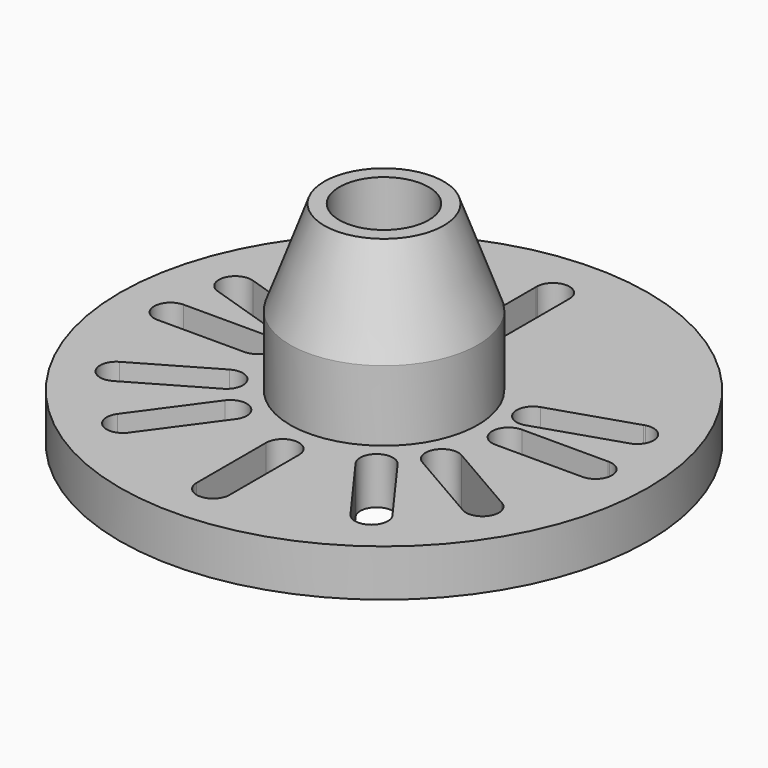
from build123d import *

# Parameters (mm, degrees)
F0_R     = 112.5
F1_DEPTH = 20
F4_R     = 19.05
F5_DEPTH = 90
F6_R     = 42.55
F7_DEPTH = 10


with BuildPart() as f1:
    # F0 (on Top) → F1 (new body)
    with BuildSketch(Plane.XY):
        Circle(F0_R)
        with BuildLine():
            ThreePointArc((-47.443954, -77.196073), (-57.151446, -78.373088), (-58.563792, -68.697033))
            Line((-58.563792, -68.697033), (-36.815737, -38.763404))
            ThreePointArc((-36.815737, -38.763404), (-27.037496, -37.215236), (-25.490409, -46.993649))
            Line((-25.490409, -46.993649), (-47.046201, -76.648867))
            ThreePointArc((-47.046201, -76.648867), (-47.238463, -76.927278), (-47.443954, -77.196073))
        make_face(mode=Mode.SUBTRACT)
        with BuildLine():
            ThreePointArc((-74.74068, -51.224927), (-84.08765, -48.351791), (-81.442286, -38.937822))
            Line((-81.442286, -38.937822), (-49.399346, -20.437822))
            ThreePointArc((-49.399346, -20.437822), (-39.836782, -23.00067), (-42.400686, -32.562951))
            Line((-42.400686, -32.562951), (-74.154746, -50.886811))
            ThreePointArc((-74.154746, -50.886811), (-74.443626, -51.062951), (-74.74068, -51.224927))
        make_face(mode=Mode.SUBTRACT)
        with BuildLine():
            ThreePointArc((-90.839791, -7.491748), (-97.497937, -0.330054), (-90.5, 6.5))
            Line((-90.5, 6.5), (-53.5, 6.5))
            ThreePointArc((-53.5, 6.5), (-46.5, -0.500773), (-53.501547, -7.5))
            Line((-53.501547, -7.5), (-90.163299, -7.491898))
            ThreePointArc((-90.163299, -7.491898), (-90.501547, -7.5), (-90.839791, -7.491748))
        make_face(mode=Mode.SUBTRACT)
        with BuildLine():
            ThreePointArc((6.991748, -91.339791), (-0.169946, -97.997937), (-7, -91))
            Line((-7, -91), (-7, -54))
            ThreePointArc((-7, -54), (0.000773, -47), (7, -54.001547))
            Line((7, -54.001547), (6.991898, -90.663299))
            ThreePointArc((6.991898, -90.663299), (7, -91.001547), (6.991748, -91.339791))
        make_face(mode=Mode.SUBTRACT)
        with BuildLine():
            ThreePointArc((58.75684, -68.97678), (56.876468, -78.572871), (47.237554, -76.926026))
            Line((47.237554, -76.926026), (25.489499, -46.992397))
            ThreePointArc((25.489499, -46.992397), (27.038747, -37.214327), (36.816646, -38.764656))
            Line((36.816646, -38.764656), (58.359329, -68.429399))
            ThreePointArc((58.359329, -68.429399), (58.564701, -68.698284), (58.75684, -68.97678))
        make_face(mode=Mode.SUBTRACT)
        with BuildLine():
            ThreePointArc((81.732428, -39.114864), (83.917705, -48.646146), (74.442286, -51.062178))
            Line((74.442286, -51.062178), (42.399346, -32.562178))
            ThreePointArc((42.399346, -32.562178), (39.837555, -22.99933), (49.400686, -20.438596))
            Line((49.400686, -20.438596), (81.146644, -38.776489))
            ThreePointArc((81.146644, -38.776489), (81.443626, -38.938596), (81.732428, -39.114864))
        make_face(mode=Mode.SUBTRACT)
        with BuildLine():
            ThreePointArc((90.839791, 6.491748), (97.497937, -0.669946), (90.5, -7.5))
            Line((90.5, -7.5), (53.5, -7.5))
            ThreePointArc((53.5, -7.5), (46.5, -0.499227), (53.501547, 6.5))
            Line((53.501547, 6.5), (90.163299, 6.491898))
            ThreePointArc((90.163299, 6.491898), (90.501547, 6.5), (90.839791, 6.491748))
        make_face(mode=Mode.SUBTRACT)
        with BuildLine():
            ThreePointArc((-88.078816, 21.266983), (-92.198004, 30.135639), (-83.431968, 34.468925))
            Line((-83.431968, 34.468925), (-48.242876, 23.035296))
            ThreePointArc((-48.242876, 23.035296), (-43.748839, 14.214046), (-52.570586, 9.720983))
            Line((-52.570586, 9.720983), (-87.43548, 21.057793))
            ThreePointArc((-87.43548, 21.057793), (-87.759677, 21.154612), (-88.078816, 21.266983))
        make_face(mode=Mode.SUBTRACT)
        with BuildLine():
            ThreePointArc((83.757678, 34.566078), (92.303036, 29.812383), (87.758205, 21.154134))
            Line((87.758205, 21.154134), (52.569114, 9.720505))
            ThreePointArc((52.569114, 9.720505), (43.748361, 14.215517), (48.244348, 23.035774))
            Line((48.244348, 23.035774), (83.11425, 34.357173))
            ThreePointArc((83.11425, 34.357173), (83.433439, 34.469403), (83.757678, 34.566078))
        make_face(mode=Mode.SUBTRACT)
        with BuildLine():
            ThreePointArc((7, 53), (-0.000773, 46), (-7, 53.001547))
            Line((-7, 53.001547), (-6.991898, 89.663299))
            ThreePointArc((-6.991898, 89.663299), (-7, 90.001547), (-6.991748, 90.339791))
            ThreePointArc((-6.991748, 90.339791), (0.169946, 96.997937), (7, 90))
            Line((7, 90), (7, 53))
        make_face(mode=Mode.SUBTRACT)
    extrude(amount=F1_DEPTH)

    # F2 (on Front) → F3 (revolve)
    with BuildSketch(Plane.XZ):
        Polygon((-40, 50), (-40, 20), (0, 20), (0, 90), (-25.441191, 90), align=None)
    revolve(axis=Axis((0, 0, 55), (0, 0, 1)))

    # F4 (on face) → F5 (cut, through all)
    with BuildSketch(Plane.XY.offset(90)):
        Circle(F4_R)
    extrude(amount=-F5_DEPTH, mode=Mode.SUBTRACT)

    # F6 (on face) → F7 (cut)
    with BuildSketch(Plane(origin=(0, 0, 0), x_dir=(1, 0, 0), z_dir=(0, 0, -1))):
        Circle(F6_R)
    extrude(amount=-F7_DEPTH, mode=Mode.SUBTRACT)


solid = f1.part
